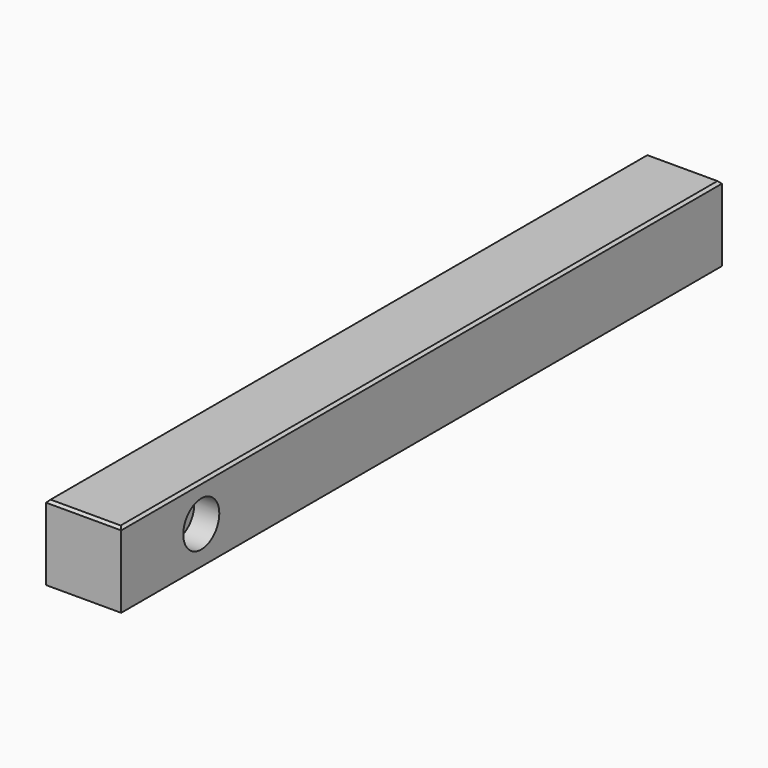
from build123d import *

# Parameters (mm, degrees)
F0_W     = 150
F0_H     = 150
F1_DEPTH = 750
F2_SIZE  = 5
F3_R     = 45
F4_DEPTH = 50


with BuildPart() as f1:
    # F0 (on Front) → F1 (new body, symmetric)
    with BuildSketch(Plane.XZ):
        Rectangle(F0_W, F0_H)
    extrude(amount=F1_DEPTH, both=True)

    # F2
    f2_edges = [f1.edges().sort_by_distance(p)[0] for p in [
        (0, 750, 75),
        (-75, 0, 75),
        (0, -750, 75),
        (75, 0, 75),
    ]]
    chamfer(f2_edges, length=F2_SIZE)

    # F3 (on face) → F4 (cut)
    with BuildSketch(Plane.YZ.offset(75)):
        with Locations((-550, 0)):
            Circle(F3_R)
    extrude(amount=-F4_DEPTH, mode=Mode.SUBTRACT)


solid = f1.part
